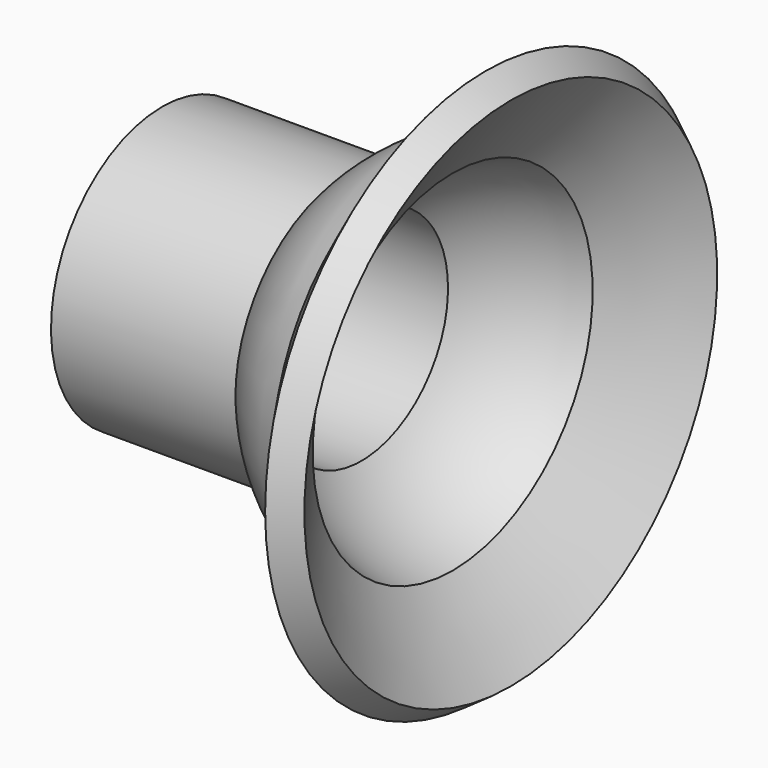
from build123d import *


with BuildPart() as f1:
    # F0 (on Front) → F1 (revolve)
    with BuildSketch(Plane.XZ):
        with BuildLine():
            Line((-16.970546, 14.351), (-36.020546, 14.351))
            Line((-36.020546, 14.351), (-36.020546, 11.176))
            Line((-36.020546, 11.176), (-15.427233, 11.176))
            ThreePointArc((-15.427233, 11.176), (-11.257273, 15.368029), (-6.002797, 18.079517))
            Line((-6.002797, 18.079517), (0, 26.652399))
            Line((0, 26.652399), (-2.600808, 28.473505))
            Line((-2.600808, 28.473505), (-8.026313, 20.725079))
            ThreePointArc((-8.026313, 20.725079), (-12.898371, 18.099245), (-16.970546, 14.351))
        make_face()
    revolve(axis=Axis((-36.268172, 0, 0), (1, 0, 0)))


solid = f1.part
